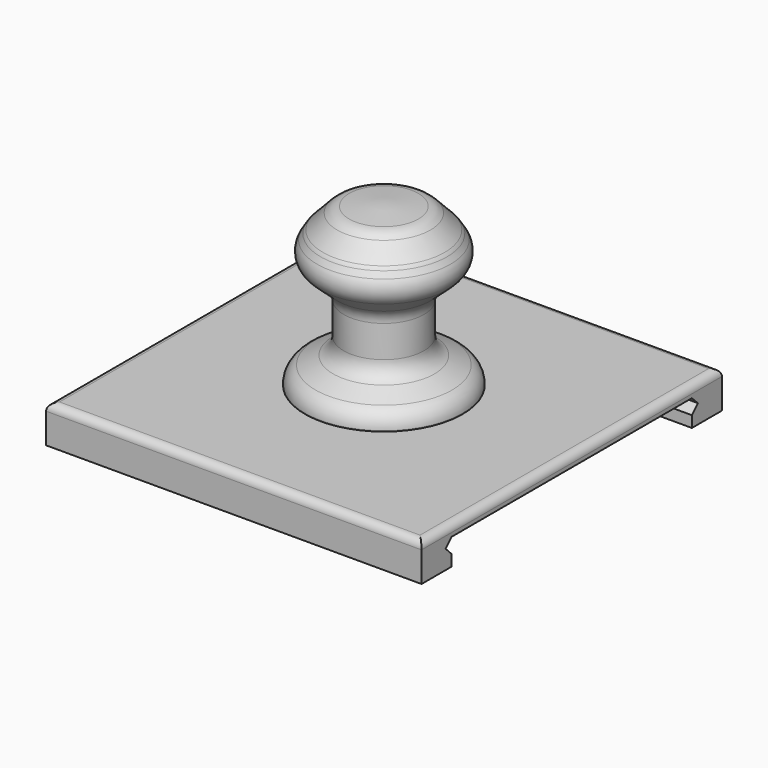
from build123d import *

# Parameters (mm, degrees)
F1_DEPTH = 50
F3_DEPTH = 50
F5_R     = 2


with BuildPart() as f1:
    # F0 (on Right) → F1 (new body)
    with BuildSketch(Plane.YZ):
        Polygon((50.055066, -0.085225), (-49.944934, -0.085225), (-49.944934, -10.085225), (-39.944934, -10.085225), (-39.944934, -7.085225), (-41.944934, -5.085225), (-39.944934, -3.085225), (40.055066, -3.085225), (42.055066, -5.085225), (40.055066, -7.085225), (40.055066, -10.085225), (50.055066, -10.085225), align=None)
    extrude(amount=F1_DEPTH)

    # F0 (on Right) → F3 (join)
    with BuildSketch(Plane.YZ):
        Polygon((50.055066, -0.085225), (-49.944934, -0.085225), (-49.944934, -10.085225), (-39.944934, -10.085225), (-39.944934, -7.085225), (-41.944934, -5.085225), (-39.944934, -3.085225), (40.055066, -3.085225), (42.055066, -5.085225), (40.055066, -7.085225), (40.055066, -10.085225), (50.055066, -10.085225), align=None)
    extrude(amount=-F3_DEPTH)

    # F5
    f5_edges = [f1.edges().sort_by_distance(p)[0] for p in [
        (-50, 0.055066, -0.085225),
        (0, -49.944934, -0.085225),
        (50, 0.055066, -0.085225),
        (0, 50.055066, -0.085225),
    ]]
    fillet(f5_edges, radius=F5_R)


with BuildPart() as f4:
    # F2 (on Right) → F4 (revolve)
    with BuildSketch(Plane.YZ):
        with BuildLine():
            Line((9.222665, 41.928775), (0, 42.726281))
            Line((0, 42.726281), (0, 0.003849))
            Line((0, 0.003849), (20.985238, 0.003849))
            Line((20.985238, 0.003849), (20.985238, 0.237737))
            ThreePointArc((20.985238, 0.237737), (20.224886, 2.888281), (18.175085, 4.732686))
            Line((18.175085, 4.732686), (13.502966, 7.008847))
            ThreePointArc((13.502966, 7.008847), (11.453165, 8.853253), (10.692813, 11.503796))
            Line((10.692813, 11.503796), (10.692813, 20.006272))
            ThreePointArc((10.692813, 20.006272), (11.125313, 22.040464), (12.347989, 23.722742))
            Line((12.347989, 23.722742), (16.836037, 27.761987))
            ThreePointArc((16.836037, 27.761987), (18.439608, 30.761946), (17.752826, 34.093539))
            Line((17.752826, 34.093539), (16.856958, 35.553471))
            ThreePointArc((16.856958, 35.553471), (16.561375, 35.983156), (16.222642, 36.379715))
            Line((16.222642, 36.379715), (12.419207, 40.38869))
            ThreePointArc((12.419207, 40.38869), (10.962143, 41.451817), (9.222665, 41.928775))
        make_face()
    revolve(axis=Axis((0, 0, 21.365065), (0, 0, -1)))


solid = Compound([f1.part, f4.part])
